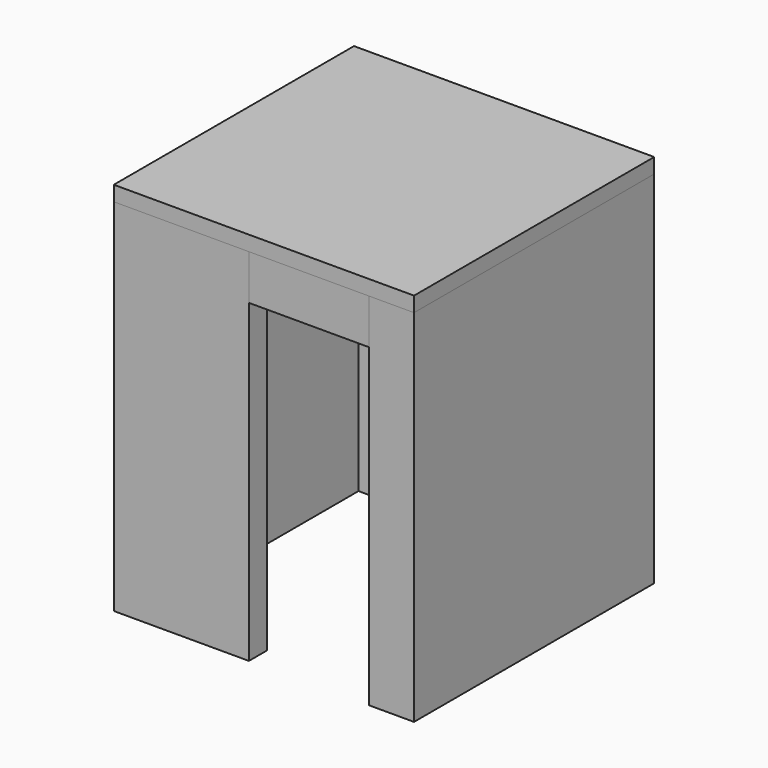
from build123d import *

# Parameters (mm, degrees)
EXTRUSION_DEPTH    = 2400
EXTRUSION001_DEPTH = 2400
RECTANGLE005_W     = 800
RECTANGLE005_H     = 150
EXTRUSION002_DEPTH = 300
RECTANGLE003_W     = 1200
RECTANGLE003_H     = 150
EXTRUSION003_DEPTH = 1200
RECTANGLE006_W     = 1200
RECTANGLE006_H     = 150
EXTRUSION004_DEPTH = 100
RECTANGLE007_W     = 2000
RECTANGLE007_H     = 2000
EXTRUSION005_DEPTH = 100


with BuildPart() as extrusion:
    # DWire → Extrusion (new body)
    with BuildSketch(Plane.XY):
        Polygon((250, 2000), (0, 2000), (0, 0), (900, 0), (900, 150), (150, 150), (150, 1850), (250, 1850), align=None)
    extrude(amount=EXTRUSION_DEPTH)


with BuildPart() as extrusion001:
    # DWire001 → Extrusion001 (new body)
    with BuildSketch(Plane.XY):
        Polygon((1450, 2000), (1450, 1850), (1850, 1850), (1850, 150), (1700, 150), (1700, 0), (2000, 0), (2000, 2000), align=None)
    extrude(amount=EXTRUSION001_DEPTH)


with BuildPart() as extrusion002:
    # Rectangle005 → Extrusion002 (new body)
    with BuildSketch(Plane(origin=(900, 150, 2400), x_dir=(1, 0, 0), z_dir=(0, 0, 1))):
        with Locations((400, -75)):
            Rectangle(RECTANGLE005_W, RECTANGLE005_H)
    extrude(amount=-EXTRUSION002_DEPTH)


with BuildPart() as extrusion003:
    # Rectangle003 → Extrusion003 (new body)
    with BuildSketch(Plane(origin=(250, 2000, 0), x_dir=(1, 0, 0), z_dir=(0, 0, 1))):
        with Locations((600, -75)):
            Rectangle(RECTANGLE003_W, RECTANGLE003_H)
    extrude(amount=EXTRUSION003_DEPTH)


with BuildPart() as extrusion004:
    # Rectangle006 → Extrusion004 (new body)
    with BuildSketch(Plane(origin=(1450, 2000, 2400), x_dir=(1, 0, 0), z_dir=(0, 0, 1))):
        with Locations((-600, -75)):
            Rectangle(RECTANGLE006_W, RECTANGLE006_H)
    extrude(amount=-EXTRUSION004_DEPTH)


with BuildPart() as extrusion005:
    # Rectangle007 → Extrusion005 (new body)
    with BuildSketch(Plane.XY.offset(2400)):
        with Locations((1000, 1000)):
            Rectangle(RECTANGLE007_W, RECTANGLE007_H)
    extrude(amount=EXTRUSION005_DEPTH)


solid = Compound([extrusion.part, extrusion001.part, extrusion002.part, extrusion003.part, extrusion004.part, extrusion005.part])
